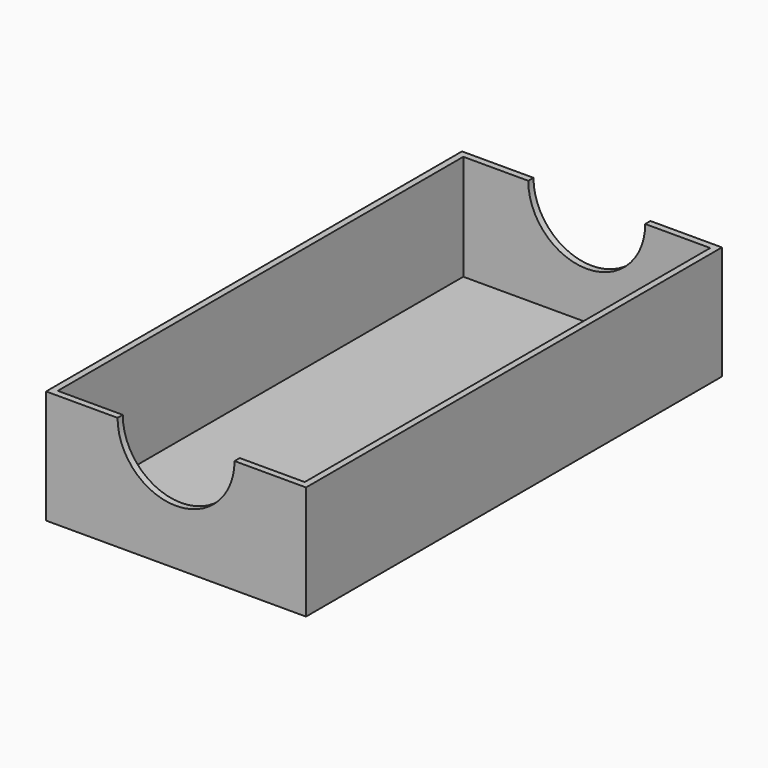
from build123d import *

# Parameters (mm, degrees)
F0_W     = 76
F0_H     = 156
F1_DEPTH = 2.5
F0_W_2   = 80
F0_H_2   = 160
F2_DEPTH = 35
F4_DEPTH = 160


with BuildPart() as f1:
    # F0 (on Top) → F1 (new body)
    with BuildSketch(Plane.XY):
        with Locations((-62.088289, -6.299588)):
            Rectangle(F0_W, F0_H)
    extrude(amount=F1_DEPTH)

    # F0 (on Top) → F2 (join)
    with BuildSketch(Plane.XY):
        with Locations((-62.088289, -6.299588)):
            Rectangle(F0_W_2, F0_H_2)
        with Locations((-62.088289, -6.299588)):
            Rectangle(F0_W, F0_H, mode=Mode.SUBTRACT)
    extrude(amount=F2_DEPTH)

    # F3 (on face) → F4 (cut)
    with BuildSketch(Plane.XZ.offset(86.299588)):
        with BuildLine():
            ThreePointArc((-80.088289, 35), (-62.088289, 17), (-44.088289, 35))
            Line((-44.088289, 35), (-80.088289, 35))
        make_face()
    extrude(amount=-F4_DEPTH, mode=Mode.SUBTRACT)


solid = f1.part
